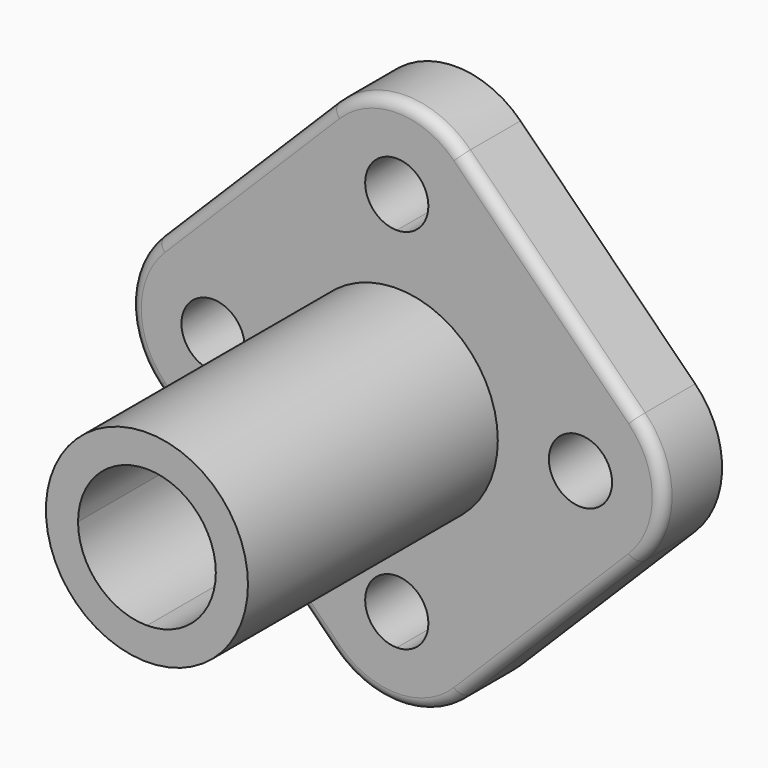
from build123d import *

# Parameters (mm, degrees)
F1_DEPTH = 10.16
F2_R     = 12.7
F3_R     = 12.7
F4_R     = 1.524
F5_R     = 13.97
F6_DEPTH = 43.18
F8_DEPTH = 43.18


with BuildPart() as f1:
    # F0 (on Front) → F1 (new body)
    with BuildSketch(Plane.XZ):
        with BuildLine():
            Line((0, 21.0312), (0, 0))
            Line((0, 0), (21.0312, 0))
            ThreePointArc((21.0312, 0), (25.4, 4.3688), (29.7688, 0))
            Line((29.7688, 0), (42.1132, 0))
            Line((42.1132, 0), (0, 42.1132))
            Line((0, 42.1132), (0, 29.7688))
            ThreePointArc((0, 29.7688), (3.0892081056, 28.4892081056), (4.3688, 25.4))
            ThreePointArc((4.3688, 25.4), (3.0892081056, 22.3107918944), (0, 21.0312))
        make_face()
        with BuildLine():
            Line((21.0312, 0), (0, 0))
            Line((0, 0), (0, -21.0312))
            ThreePointArc((0, -21.0312), (3.0892081056, -22.3107918944), (4.3688, -25.4))
            ThreePointArc((4.3688, -25.4), (3.0892081056, -28.4892081056), (0, -29.7688))
            Line((0, -29.7688), (0, -42.1132))
            Line((0, -42.1132), (42.1132, 0))
            Line((42.1132, 0), (29.7688, 0))
            ThreePointArc((29.7688, 0), (25.4, -4.3688), (21.0312, 0))
        make_face()
        with BuildLine():
            Line((0, -21.0312), (0, 0))
            Line((0, 0), (-21.0312, 0))
            ThreePointArc((-21.0312, 0), (-25.4, -4.3688), (-29.7688, 0))
            Line((-29.7688, 0), (-42.1132, 0))
            Line((-42.1132, 0), (0, -42.1132))
            Line((0, -42.1132), (0, -29.7688))
            ThreePointArc((0, -29.7688), (-4.3688, -25.4), (0, -21.0312))
        make_face()
        with BuildLine():
            Line((-21.0312, 0), (0, 0))
            Line((0, 0), (0, 21.0312))
            ThreePointArc((0, 21.0312), (-4.3688, 25.4), (0, 29.7688))
            Line((0, 29.7688), (0, 42.1132))
            Line((0, 42.1132), (-42.1132, 0))
            Line((-42.1132, 0), (-29.7688, 0))
            ThreePointArc((-29.7688, 0), (-25.4, 4.3688), (-21.0312, 0))
        make_face()
    extrude(amount=F1_DEPTH)

    # F2
    f2_edges = [f1.edges().sort_by_distance(p)[0] for p in [
        (0, -5.08, 42.1132),
        (-42.1132, -5.08, 0),
    ]]
    fillet(f2_edges, radius=F2_R)

    # F3
    f3_edges = [f1.edges().sort_by_distance(p)[0] for p in [
        (42.1132, -5.08, 0),
        (0, -5.08, -42.1132),
    ]]
    fillet(f3_edges, radius=F3_R)

    # F4
    f4_edges = [f1.edges().sort_by_distance(p)[0] for p in [
        (-21.0566, -10.16, 21.0566),
        (0, -10.16, 36.852688),
        (21.0566, -10.16, 21.0566),
        (36.852688, -10.16, 0),
        (21.0566, -10.16, -21.0566),
        (0, -10.16, -36.852688),
        (-21.0566, -10.16, -21.0566),
        (-36.852688, -10.16, 0),
    ]]
    fillet(f4_edges, radius=F4_R)

    # F5 (on face) → F6 (join)
    with BuildSketch(Plane.XZ.offset(10.16)):
        Circle(F5_R)
    extrude(amount=F6_DEPTH)

    # F7 (on face) → F8 (cut)
    with BuildSketch(Plane.XZ.offset(53.34)):
        with BuildLine():
            Line((0, 0), (9.525, 0))
            ThreePointArc((9.525, 0), (6.7351920908, 6.7351920908), (0, 9.525))
            Line((0, 9.525), (0, 0))
        make_face()
        with BuildLine():
            Line((0, 0), (0, 9.525))
            ThreePointArc((0, 9.525), (-6.7351920908, 6.7351920908), (-9.525, 0))
            Line((-9.525, 0), (0, 0))
        make_face()
        with BuildLine():
            ThreePointArc((-9.525, 0), (-6.7351920908, -6.7351920908), (0, -9.525))
            Line((0, -9.525), (0, 0))
            Line((0, 0), (-9.525, 0))
        make_face()
        with BuildLine():
            ThreePointArc((0, -9.525), (6.7351920908, -6.7351920908), (9.525, 0))
            Line((9.525, 0), (0, 0))
            Line((0, 0), (0, -9.525))
        make_face()
    extrude(amount=-F8_DEPTH, mode=Mode.SUBTRACT)


solid = f1.part
